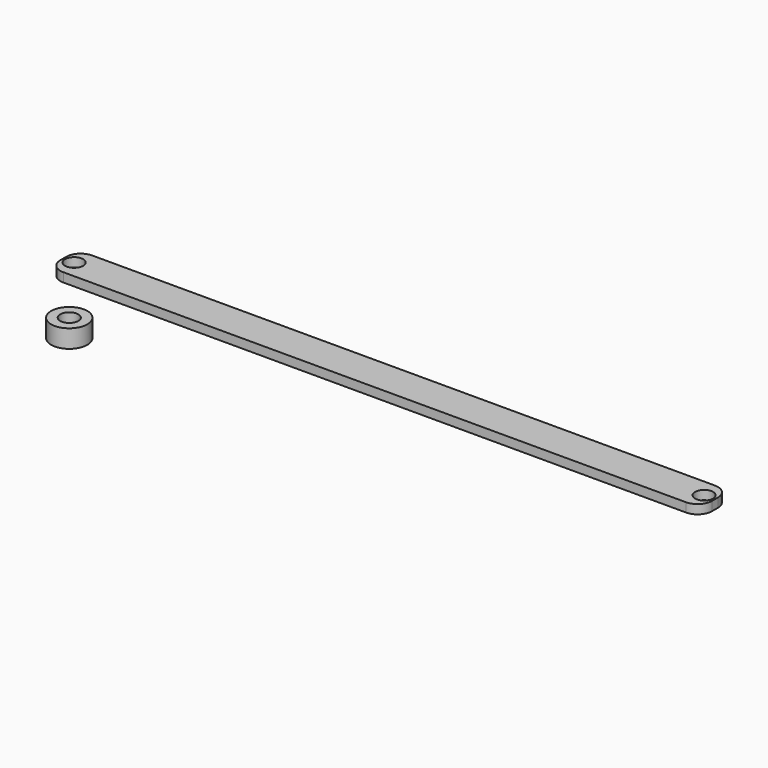
from build123d import *

# Parameters (mm, degrees)
F0_W     = 457.2
F0_H     = 25.4
F1_DEPTH = 6.35
F2_R     = 6.35
F3_DEPTH = 25.4
F4_R     = 12.7
F4_R_2   = 6.35
F5_DEPTH = 12.7
F6_R     = 10.16


with BuildPart() as f1:
    # F0 (on Top) → F1 (new body)
    with BuildSketch(Plane.XY):
        with Locations((191.854619, 25.94442)):
            Rectangle(F0_W, F0_H)
    extrude(amount=F1_DEPTH)

    # F2 (on face) → F3 (cut)
    with BuildSketch(Plane.XY.offset(6.35)):
        with Locations((-29.125381, 25.94442)):
            Circle(F2_R)
        with Locations((412.834619, 25.94442)):
            Circle(F2_R)
    extrude(amount=-F3_DEPTH, mode=Mode.SUBTRACT)

    # F6
    f6_edges = [f1.edges().sort_by_distance(p)[0] for p in [
        (-36.745381, 13.24442, 3.175),
        (-36.745381, 38.64442, 3.175),
        (420.454619, 38.64442, 3.175),
        (420.454619, 13.24442, 3.175),
    ]]
    fillet(f6_edges, radius=F6_R)


with BuildPart() as f5:
    # F4 (on Top) → F5 (new body)
    with BuildSketch(Plane.XY):
        with Locations((17.283294, -36.323182)):
            Circle(F4_R)
        with Locations((17.283294, -36.323182)):
            Circle(F4_R_2, mode=Mode.SUBTRACT)
    extrude(amount=F5_DEPTH)


solid = Compound([f1.part, f5.part])
